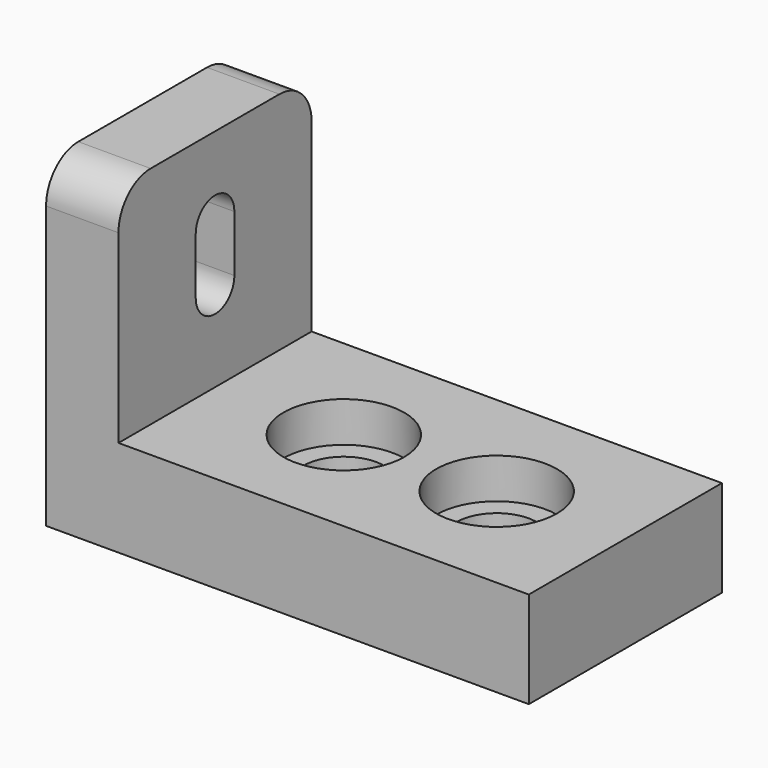
from build123d import *

# Parameters (mm, degrees)
F1_DEPTH       = 30
F2_R           = 5
F3_R           = 5
F6_D           = 10
F6_CBORE_D     = 15
F6_CBORE_DEPTH = 5
F7_D           = 10
F7_CBORE_D     = 15
F7_CBORE_DEPTH = 5
F9_DEPTH       = 9.001


with BuildPart() as f1:
    # F0 (on Front) → F1 (new body)
    with BuildSketch(Plane.XZ):
        Polygon((0, 0), (60, 0), (60, 12), (9, 12), (9, 40), (0, 40), align=None)
    extrude(amount=F1_DEPTH)

    # F2
    f2_edges = [f1.edges().sort_by_distance(p)[0] for p in [
        (4.5, -30, 40),
    ]]
    fillet(f2_edges, radius=F2_R)

    # F3
    f3_edges = [f1.edges().sort_by_distance(p)[0] for p in [
        (4.5, 0, 40),
    ]]
    fillet(f3_edges, radius=F3_R)

    # F6 (through all)
    with Locations(Plane.XY.offset(12)):
        with Locations((44, -15)):
            CounterBoreHole(F6_D / 2, F6_CBORE_D / 2, F6_CBORE_DEPTH)

    # F7 (through all)
    with Locations(Plane.XY.offset(12)):
        with Locations((25, -15)):
            CounterBoreHole(F7_D / 2, F7_CBORE_D / 2, F7_CBORE_DEPTH)

    # F8 (on face) → F9 (cut, through all)
    with BuildSketch(Plane.YZ.offset(9)):
        with BuildLine():
            ThreePointArc((-12, 30), (-15, 33), (-18, 30))
            Line((-18, 30), (-18, 23))
            ThreePointArc((-18, 23), (-15, 20), (-12, 23))
            Line((-12, 23), (-12, 30))
        make_face()
    extrude(amount=-F9_DEPTH, mode=Mode.SUBTRACT)


solid = f1.part
